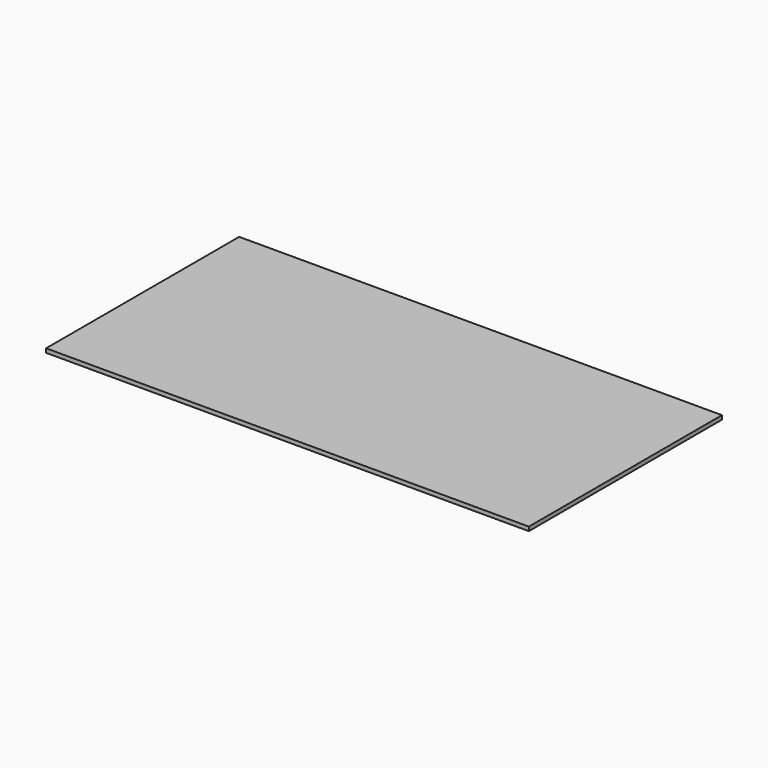
from build123d import *

# Parameters (mm, degrees)
SKETCH_W  = 600
SKETCH_H  = 300
PAD_DEPTH = 2.5


with BuildPart() as part:
    # Sketch → Pad (new body, symmetric)
    with BuildSketch(Plane.XY):
        Rectangle(SKETCH_W, SKETCH_H)
    extrude(amount=PAD_DEPTH, both=True)


solid = part.part
